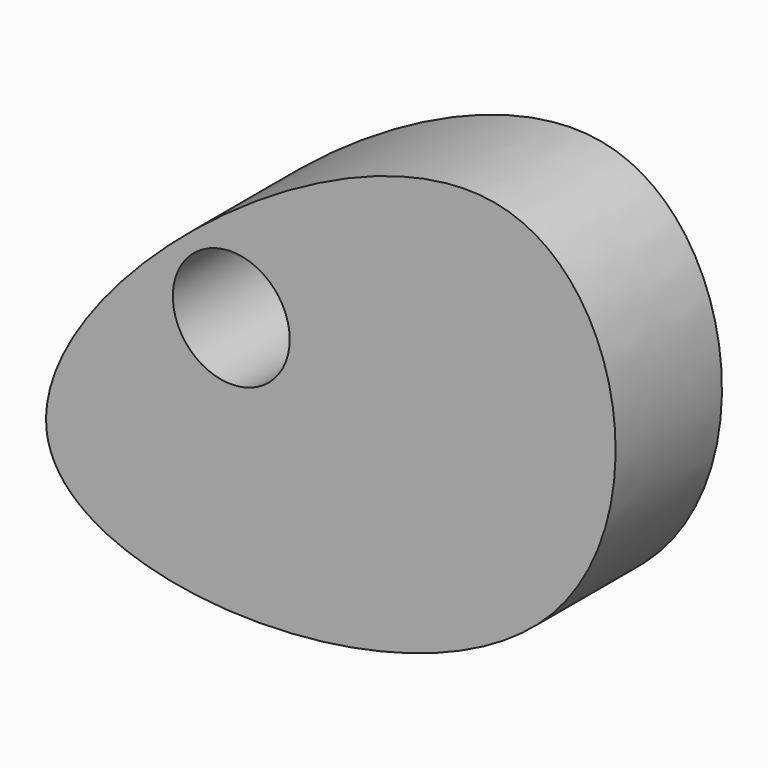
from build123d import *

# Parameters (mm, degrees)
F0_R     = 11.1734201217
F1_DEPTH = 25.4


with BuildPart() as f1:
    # F0 (on Front) → F1 (new body)
    with BuildSketch(Plane.XZ):
        with BuildLine():
            add(Edge.make_bspline(
                [(-55.6460544467, -15.9418415278), (-49.7875724974, -38.8865305195), (68.7057584237, -40.2686617628), (46.6189283198, 97.6052877895), (-61.9154451556, 8.6121677237), (-55.6460544467, -15.9418415278)],
                knots=[0, 0, 0, 0, 0.3441251355, 0.6317382309, 1, 1, 1, 1], degree=3))
        make_face()
        with Locations((-20.7006055862, 16.358198598)):
            Circle(F0_R, mode=Mode.SUBTRACT)
    extrude(amount=F1_DEPTH)


solid = f1.part
